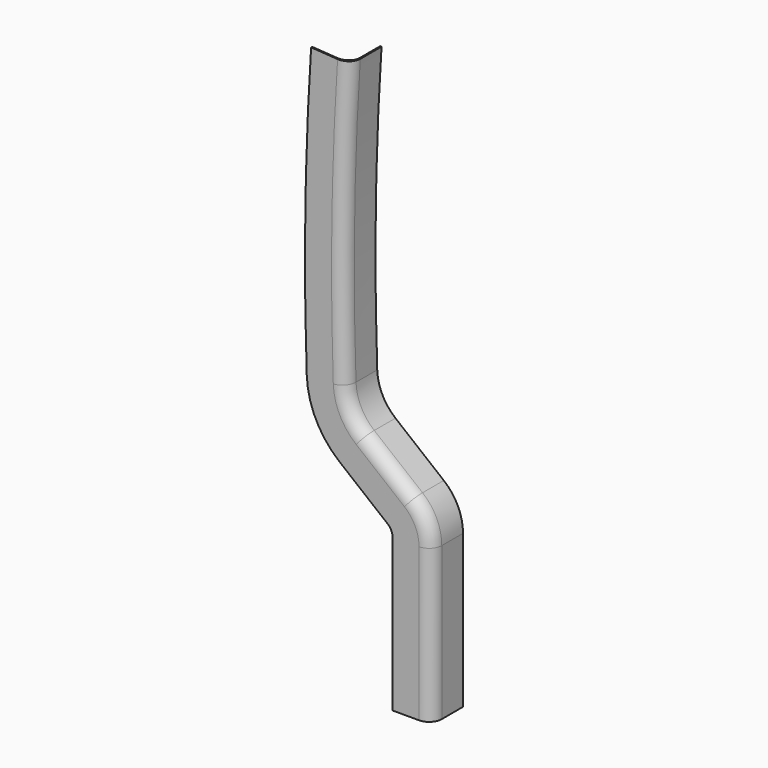
from build123d import *


with BuildPart() as f2:
    # F2: sweep along a path in F0
    with BuildLine(Plane.XZ) as f2_path:
        Line((0, 0), (0, 153.5696429389))
        ThreePointArc((0, 153.5696429389), (-4.948667555, 175.4396066568), (-18.8305241347, 193.0486577809))
        Line((-18.8305241347, 193.0486577809), (-67.3897123903, 232.3711130953))
        ThreePointArc((-67.3897123903, 232.3711130953), (-80.878420513, 249.174292594), (-86.1885856524, 270.0571619915))
        ThreePointArc((-86.1885856524, 270.0571619915), (-87.6470717081, 413.8855401228), (-81.868797376, 557.6052015585))
    # F1 (on Top) → F2 (sweep)
    with BuildSketch(Plane.XY):
        with BuildLine():
            Line((1.27, 0), (0, 0))
            Line((0, 0), (0, -25.4))
            ThreePointArc((0, -25.4), (-3.7197438789, -34.3802561211), (-12.7, -38.1))
            Line((-12.7, -38.1), (-38.1, -38.1))
            Line((-38.1, -38.1), (-38.1, -39.37))
            Line((-38.1, -39.37), (-11.43, -39.37))
            ThreePointArc((-11.43, -39.37), (-2.4497438789, -35.6502561211), (1.27, -26.67))
            Line((1.27, -26.67), (1.27, 0))
        make_face()
    sweep(path=f2_path.line)


solid = f2.part
